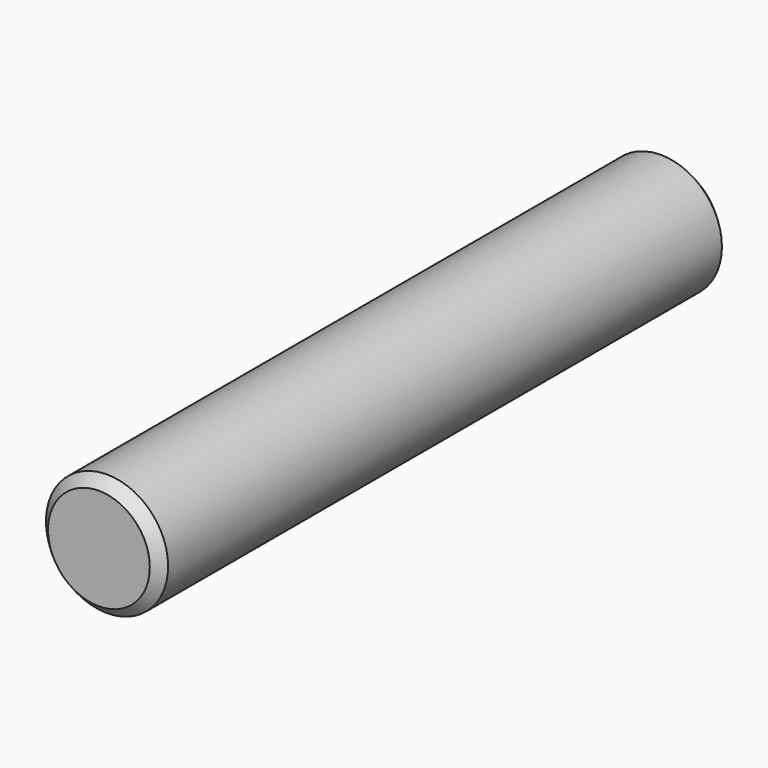
from build123d import *

# Parameters (mm, degrees)
F0_R     = 3
F1_DEPTH = 35
F2_SIZE  = 0.5
F3_SIZE  = 0.5


with BuildPart() as f1:
    # F0 (on Front) → F1 (new body)
    with BuildSketch(Plane.XZ):
        Circle(F0_R)
    extrude(amount=F1_DEPTH)

    # F2
    f2_edges = [f1.edges().sort_by_distance(p)[0] for p in [
        (-3, -35, 0),
    ]]
    chamfer(f2_edges, length=F2_SIZE)

    # F3
    f3_edges = [f1.edges().sort_by_distance(p)[0] for p in [
        (-3, 0, 0),
    ]]
    chamfer(f3_edges, length=F3_SIZE)


solid = f1.part
